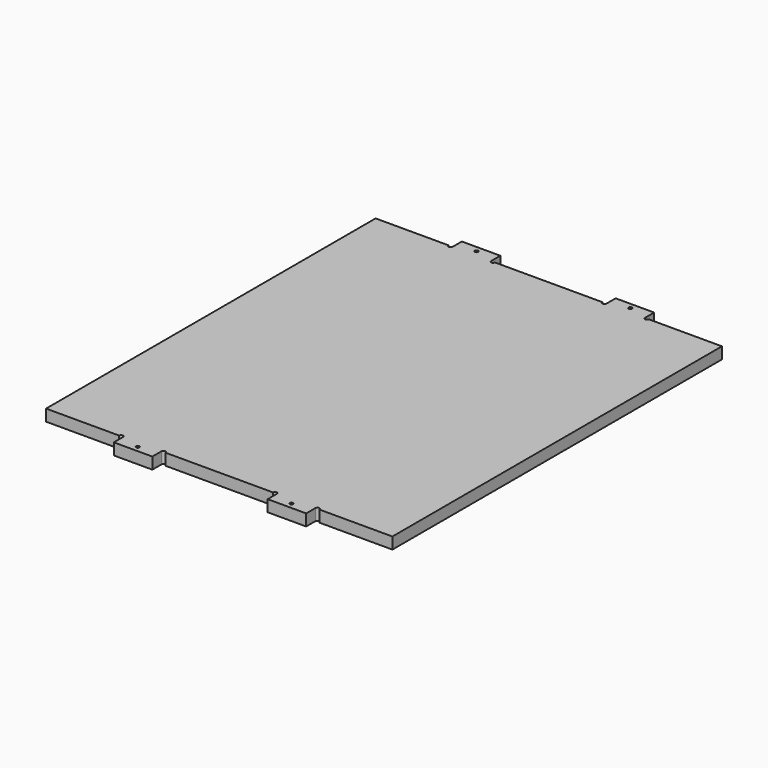
from build123d import *

# Parameters (mm, degrees)
F0_R     = 1.75
F1_DEPTH = 12


with BuildPart() as f1:
    # F0 (on Top) → F1 (new body)
    with BuildSketch(Plane.XY):
        with BuildLine():
            Line((-179.925, 214), (-179.925, 0))
            Line((-179.925, 0), (-179.925, -214))
            Line((-179.925, -214), (-103.925, -214))
            ThreePointArc((-103.925, -214), (-101.925, -212), (-99.925, -214))
            Line((-99.925, -214), (-99.925, -226))
            Line((-99.925, -226), (-59.925, -226))
            Line((-59.925, -226), (-59.925, -214))
            ThreePointArc((-59.925, -214), (-57.925, -212), (-55.925, -214))
            Line((-55.925, -214), (0, -214))
            Line((0, -214), (55.925, -214))
            ThreePointArc((55.925, -214), (57.925, -212), (59.925, -214))
            Line((59.925, -214), (59.925, -226))
            Line((59.925, -226), (99.925, -226))
            Line((99.925, -226), (99.925, -214))
            ThreePointArc((99.925, -214), (101.925, -212), (103.925, -214))
            Line((103.925, -214), (179.925, -214))
            Line((179.925, -214), (179.925, 0))
            Line((179.925, 0), (179.925, 214))
            Line((179.925, 214), (103.925, 214))
            ThreePointArc((103.925, 214), (101.925, 212), (99.925, 214))
            Line((99.925, 214), (99.925, 226))
            Line((99.925, 226), (59.925, 226))
            Line((59.925, 226), (59.925, 214))
            ThreePointArc((59.925, 214), (57.925, 212), (55.925, 214))
            Line((55.925, 214), (0, 214))
            Line((0, 214), (-55.925, 214))
            ThreePointArc((-55.925, 214), (-57.925, 212), (-59.925, 214))
            Line((-59.925, 214), (-59.925, 226))
            Line((-59.925, 226), (-99.925, 226))
            Line((-99.925, 226), (-99.925, 214))
            ThreePointArc((-99.925, 214), (-101.925, 212), (-103.925, 214))
            Line((-103.925, 214), (-179.925, 214))
        make_face()
        with Locations((-79.925, -220)):
            Circle(F0_R, mode=Mode.SUBTRACT)
        with Locations((79.925, -220)):
            Circle(F0_R, mode=Mode.SUBTRACT)
        with Locations((-79.925, 220)):
            Circle(F0_R, mode=Mode.SUBTRACT)
        with Locations((79.925, 220)):
            Circle(F0_R, mode=Mode.SUBTRACT)
    extrude(amount=F1_DEPTH)


solid = f1.part
